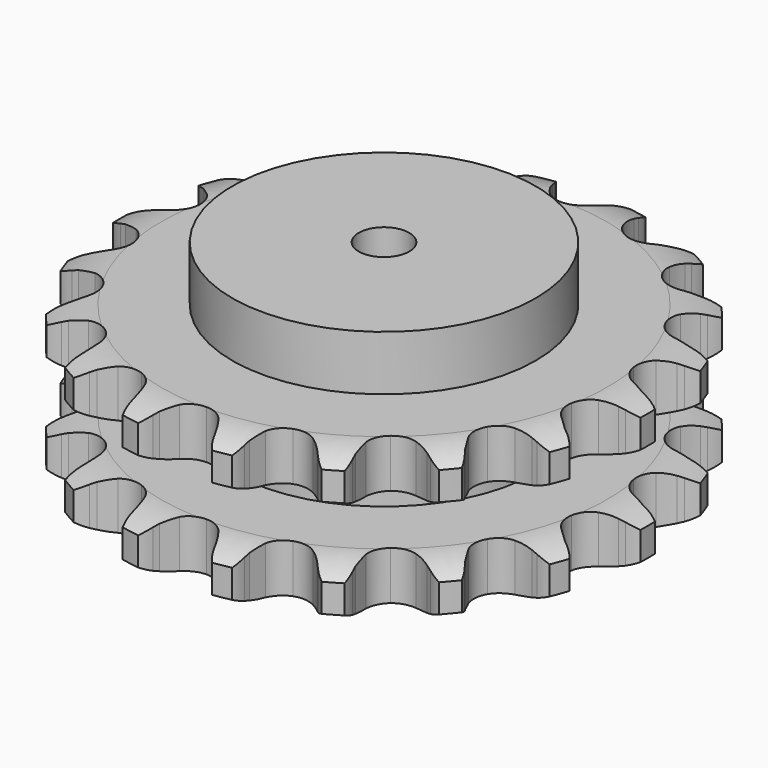
from build123d import *

# Parameters (mm, degrees)
PAD_DEPTH         = 87.4
SKETCH001_R       = 90
PAD001_DEPTH      = 120
SKETCH002_R       = 15
POCKET_DEPTH      = 0.001
POCKET_DEPTH_BACK = 120.001


with BuildPart() as part:
    # Sprocket → Pad (new body)
    with BuildSketch(Plane.XY):
        with BuildLine():
            ThreePointArc((-28.258586, 160.262403), (-22.20305, 155.378028), (-18.003876, 148.82871))
            Line((-18.003876, 148.82871), (-16.609914, 145.614296))
            ThreePointArc((-16.609914, 145.614296), (-14.352218, 141.215002), (-11.543559, 137.145307))
            ThreePointArc((-11.543559, 137.145307), (-6.412622, 133.027295), (0, 131.556645))
            ThreePointArc((0, 131.556645), (6.412622, 133.027295), (11.543559, 137.145307))
            ThreePointArc((11.543559, 137.145307), (14.352218, 141.215002), (16.609914, 145.614296))
            Line((16.609914, 145.614296), (18.003876, 148.82871))
            ThreePointArc((18.003876, 148.82871), (22.20305, 155.378028), (28.258586, 160.262403))
            ThreePointArc((28.258586, 160.262403), (32.278373, 153.601477), (33.984307, 146.010929))
            Line((33.984307, 146.010929), (34.194809, 142.513604))
            ThreePointArc((34.194809, 142.513604), (34.811702, 137.607443), (36.05906, 132.822563))
            ThreePointArc((36.05906, 132.822563), (39.472121, 127.198014), (44.995023, 123.622809))
            ThreePointArc((44.995023, 123.622809), (51.523908, 122.811522), (57.753855, 124.926304))
            Line((57.753855, 124.926304), (65.411236, 131.151754))
            ThreePointArc((65.411236, 131.151754), (66.586613, 132.451374), (67.820526, 133.695552))
            ThreePointArc((67.820526, 133.695552), (74.006458, 138.413696), (81.367354, 140.932392))
            ThreePointArc((81.367354, 140.932392), (82.866548, 133.29832), (81.873481, 125.582075))
            Line((81.873481, 125.582075), (80.875133, 122.223669))
            ThreePointArc((80.875133, 122.223669), (79.776816, 117.402395), (79.312425, 112.479457))
            ThreePointArc((79.312425, 112.479457), (80.595943, 106.026774), (84.562982, 100.778237))
            ThreePointArc((84.562982, 100.778237), (90.420651, 97.782866), (96.998183, 97.639344))
            Line((96.998183, 97.639344), (106.322997, 100.870375))
            ThreePointArc((106.322997, 100.870375), (107.871986, 101.689616), (109.45702, 102.436738))
            ThreePointArc((109.45702, 102.436738), (116.883594, 104.754629), (124.662019, 104.603854))
            ThreePointArc((124.662019, 104.603854), (123.459794, 96.91742), (119.887506, 90.006169))
            Line((119.887506, 90.006169), (117.800722, 87.191755))
            ThreePointArc((117.800722, 87.191755), (115.11967, 83.036886), (112.999541, 78.569669))
            ThreePointArc((112.999541, 78.569669), (111.998706, 72.067141), (113.931397, 65.778323))
            ThreePointArc((113.931397, 65.778323), (118.411328, 60.960154), (124.5431, 58.575638))
            Line((124.5431, 58.575638), (134.410636, 58.422541))
            ThreePointArc((134.410636, 58.422541), (136.146407, 58.66259), (137.891382, 58.822541))
            ThreePointArc((137.891382, 58.822541), (145.662844, 58.460608), (152.920605, 55.658548))
            ThreePointArc((152.920605, 55.658548), (149.161967, 48.846847), (143.441327, 43.574191))
            Line((143.441327, 43.574191), (140.517806, 41.643229))
            ThreePointArc((140.517806, 41.643229), (136.577392, 38.655903), (133.057244, 35.183219))
            ThreePointArc((133.057244, 35.183219), (129.892771, 29.415147), (129.558004, 22.844572))
            ThreePointArc((129.558004, 22.844572), (132.119852, 16.784747), (137.06628, 12.446846))
            Line((137.06628, 12.446846), (146.286369, 8.928085))
            ThreePointArc((146.286369, 8.928085), (147.999561, 8.559989), (149.694008, 8.113477))
            ThreePointArc((149.694008, 8.113477), (156.873006, 5.115375), (162.734709, 0))
            ThreePointArc((162.734709, 0), (156.873006, -5.115375), (149.694008, -8.113477))
            Line((149.694008, -8.113477), (146.286369, -8.928085))
            ThreePointArc((146.286369, -8.928085), (141.561865, -10.387552), (137.06628, -12.446846))
            ThreePointArc((137.06628, -12.446846), (132.119852, -16.784747), (129.558004, -22.844572))
            ThreePointArc((129.558004, -22.844572), (129.892771, -29.415147), (133.057244, -35.183219))
            Line((133.057244, -35.183219), (140.517806, -41.643229))
            ThreePointArc((140.517806, -41.643229), (142.001784, -42.575073), (143.441327, -43.574191))
            ThreePointArc((143.441327, -43.574191), (149.161967, -48.846847), (152.920605, -55.658548))
            ThreePointArc((152.920605, -55.658548), (145.662844, -58.460608), (137.891382, -58.822541))
            Line((137.891382, -58.822541), (134.410636, -58.422541))
            ThreePointArc((134.410636, -58.422541), (129.471888, -58.178115), (124.5431, -58.575638))
            ThreePointArc((124.5431, -58.575638), (118.411328, -60.960154), (113.931397, -65.778323))
            ThreePointArc((113.931397, -65.778323), (111.998706, -72.067141), (112.999541, -78.569669))
            Line((112.999541, -78.569669), (117.800722, -87.191755))
            ThreePointArc((117.800722, -87.191755), (118.876496, -88.574952), (119.887506, -90.006169))
            ThreePointArc((119.887506, -90.006169), (123.459794, -96.91742), (124.662019, -104.603854))
            ThreePointArc((124.662019, -104.603854), (116.883594, -104.754629), (109.45702, -102.436738))
            Line((109.45702, -102.436738), (106.322997, -100.870375))
            ThreePointArc((106.322997, -100.870375), (101.76569, -98.951539), (96.998183, -97.639344))
            ThreePointArc((96.998183, -97.639344), (90.420651, -97.782866), (84.562982, -100.778237))
            ThreePointArc((84.562982, -100.778237), (80.595943, -106.026774), (79.312425, -112.479457))
            Line((79.312425, -112.479457), (80.875133, -122.223669))
            ThreePointArc((80.875133, -122.223669), (81.412948, -123.891385), (81.873481, -125.582075))
            ThreePointArc((81.873481, -125.582075), (82.866548, -133.29832), (81.367354, -140.932392))
            ThreePointArc((81.367354, -140.932392), (74.006458, -138.413696), (67.820526, -133.695552))
            Line((67.820526, -133.695552), (65.411236, -131.151754))
            ThreePointArc((65.411236, -131.151754), (61.785048, -127.789947), (57.753855, -124.926304))
            ThreePointArc((57.753855, -124.926304), (51.523908, -122.811522), (44.995023, -123.622809))
            ThreePointArc((44.995023, -123.622809), (39.472121, -127.198014), (36.05906, -132.822563))
            Line((36.05906, -132.822563), (34.194809, -142.513604))
            ThreePointArc((34.194809, -142.513604), (34.129798, -144.264689), (33.984307, -146.010929))
            ThreePointArc((33.984307, -146.010929), (32.278373, -153.601477), (28.258586, -160.262403))
            ThreePointArc((28.258586, -160.262403), (22.20305, -155.378028), (18.003876, -148.82871))
            Line((18.003876, -148.82871), (16.609914, -145.614296))
            ThreePointArc((16.609914, -145.614296), (14.352218, -141.215002), (11.543559, -137.145307))
            ThreePointArc((11.543559, -137.145307), (6.412622, -133.027295), (0, -131.556645))
            ThreePointArc((0, -131.556645), (-6.412622, -133.027295), (-11.543559, -137.145307))
            Line((-11.543559, -137.145307), (-16.609914, -145.614296))
            ThreePointArc((-16.609914, -145.614296), (-17.269911, -147.237542), (-18.003876, -148.82871))
            ThreePointArc((-18.003876, -148.82871), (-22.20305, -155.378028), (-28.258586, -160.262403))
            ThreePointArc((-28.258586, -160.262403), (-32.278373, -153.601477), (-33.984307, -146.010929))
            Line((-33.984307, -146.010929), (-34.194809, -142.513604))
            ThreePointArc((-34.194809, -142.513604), (-34.811702, -137.607443), (-36.05906, -132.822563))
            ThreePointArc((-36.05906, -132.822563), (-39.472121, -127.198014), (-44.995023, -123.622809))
            ThreePointArc((-44.995023, -123.622809), (-51.523908, -122.811522), (-57.753855, -124.926304))
            Line((-57.753855, -124.926304), (-65.411236, -131.151754))
            ThreePointArc((-65.411236, -131.151754), (-66.586613, -132.451374), (-67.820526, -133.695552))
            ThreePointArc((-67.820526, -133.695552), (-74.006458, -138.413696), (-81.367354, -140.932392))
            ThreePointArc((-81.367354, -140.932392), (-82.866548, -133.29832), (-81.873481, -125.582075))
            Line((-81.873481, -125.582075), (-80.875133, -122.223669))
            ThreePointArc((-80.875133, -122.223669), (-79.776816, -117.402395), (-79.312425, -112.479457))
            ThreePointArc((-79.312425, -112.479457), (-80.595943, -106.026774), (-84.562982, -100.778237))
            ThreePointArc((-84.562982, -100.778237), (-90.420651, -97.782866), (-96.998183, -97.639344))
            Line((-96.998183, -97.639344), (-106.322997, -100.870375))
            ThreePointArc((-106.322997, -100.870375), (-107.871986, -101.689616), (-109.45702, -102.436738))
            ThreePointArc((-109.45702, -102.436738), (-116.883594, -104.754629), (-124.662019, -104.603854))
            ThreePointArc((-124.662019, -104.603854), (-123.459794, -96.91742), (-119.887506, -90.006169))
            Line((-119.887506, -90.006169), (-117.800722, -87.191755))
            ThreePointArc((-117.800722, -87.191755), (-115.11967, -83.036886), (-112.999541, -78.569669))
            ThreePointArc((-112.999541, -78.569669), (-111.998706, -72.067141), (-113.931397, -65.778323))
            ThreePointArc((-113.931397, -65.778323), (-118.411328, -60.960154), (-124.5431, -58.575638))
            Line((-124.5431, -58.575638), (-134.410636, -58.422541))
            ThreePointArc((-134.410636, -58.422541), (-136.146407, -58.66259), (-137.891382, -58.822541))
            ThreePointArc((-137.891382, -58.822541), (-145.662844, -58.460608), (-152.920605, -55.658548))
            ThreePointArc((-152.920605, -55.658548), (-149.161967, -48.846847), (-143.441327, -43.574191))
            Line((-143.441327, -43.574191), (-140.517806, -41.643229))
            ThreePointArc((-140.517806, -41.643229), (-136.577392, -38.655903), (-133.057244, -35.183219))
            ThreePointArc((-133.057244, -35.183219), (-129.892771, -29.415147), (-129.558004, -22.844572))
            ThreePointArc((-129.558004, -22.844572), (-132.119852, -16.784747), (-137.06628, -12.446846))
            Line((-137.06628, -12.446846), (-146.286369, -8.928085))
            ThreePointArc((-146.286369, -8.928085), (-147.999561, -8.559989), (-149.694008, -8.113477))
            ThreePointArc((-149.694008, -8.113477), (-156.873006, -5.115375), (-162.734709, 0))
            ThreePointArc((-162.734709, 0), (-156.873006, 5.115375), (-149.694008, 8.113477))
            Line((-149.694008, 8.113477), (-146.286369, 8.928085))
            ThreePointArc((-146.286369, 8.928085), (-141.561865, 10.387552), (-137.06628, 12.446846))
            ThreePointArc((-137.06628, 12.446846), (-132.119852, 16.784747), (-129.558004, 22.844572))
            ThreePointArc((-129.558004, 22.844572), (-129.892771, 29.415147), (-133.057244, 35.183219))
            Line((-133.057244, 35.183219), (-140.517806, 41.643229))
            ThreePointArc((-140.517806, 41.643229), (-142.001784, 42.575073), (-143.441327, 43.574191))
            ThreePointArc((-143.441327, 43.574191), (-149.161967, 48.846847), (-152.920605, 55.658548))
            ThreePointArc((-152.920605, 55.658548), (-145.662844, 58.460608), (-137.891382, 58.822541))
            Line((-137.891382, 58.822541), (-134.410636, 58.422541))
            ThreePointArc((-134.410636, 58.422541), (-129.471888, 58.178115), (-124.5431, 58.575638))
            ThreePointArc((-124.5431, 58.575638), (-118.411328, 60.960154), (-113.931397, 65.778323))
            ThreePointArc((-113.931397, 65.778323), (-111.998706, 72.067141), (-112.999541, 78.569669))
            Line((-112.999541, 78.569669), (-117.800722, 87.191755))
            ThreePointArc((-117.800722, 87.191755), (-118.876496, 88.574952), (-119.887506, 90.006169))
            ThreePointArc((-119.887506, 90.006169), (-123.459794, 96.91742), (-124.662019, 104.603854))
            ThreePointArc((-124.662019, 104.603854), (-116.883594, 104.754629), (-109.45702, 102.436738))
            Line((-109.45702, 102.436738), (-106.322997, 100.870375))
            ThreePointArc((-106.322997, 100.870375), (-101.76569, 98.951539), (-96.998183, 97.639344))
            ThreePointArc((-96.998183, 97.639344), (-90.420651, 97.782866), (-84.562982, 100.778237))
            ThreePointArc((-84.562982, 100.778237), (-80.595943, 106.026774), (-79.312425, 112.479457))
            Line((-79.312425, 112.479457), (-80.875133, 122.223669))
            ThreePointArc((-80.875133, 122.223669), (-81.412948, 123.891385), (-81.873481, 125.582075))
            ThreePointArc((-81.873481, 125.582075), (-82.866548, 133.29832), (-81.367354, 140.932392))
            ThreePointArc((-81.367354, 140.932392), (-74.006458, 138.413696), (-67.820526, 133.695552))
            Line((-67.820526, 133.695552), (-65.411236, 131.151754))
            ThreePointArc((-65.411236, 131.151754), (-61.785048, 127.789947), (-57.753855, 124.926304))
            ThreePointArc((-57.753855, 124.926304), (-51.523908, 122.811522), (-44.995023, 123.622809))
            ThreePointArc((-44.995023, 123.622809), (-39.472121, 127.198014), (-36.05906, 132.822563))
            Line((-36.05906, 132.822563), (-34.194809, 142.513604))
            ThreePointArc((-34.194809, 142.513604), (-34.129798, 144.264689), (-33.984307, 146.010929))
            ThreePointArc((-33.984307, 146.010929), (-32.278373, 153.601477), (-28.258586, 160.262403))
        make_face()
    extrude(amount=PAD_DEPTH)

    # Sketch → Groove (revolve, cut)
    with BuildSketch(Plane.XZ):
        with BuildLine():
            ThreePointArc((132.5, 0), (144.869317, 1.522732), (156.5, 6))
            Line((156.5, 6), (156.5, 22.8))
            ThreePointArc((156.5, 22.8), (144.869317, 27.277268), (132.5, 28.8))
            Line((90, 28.8), (132.5, 28.8))
            Line((90, 58.6), (90, 28.8))
            Line((132.5, 58.6), (90, 58.6))
            ThreePointArc((132.5, 58.6), (144.869317, 60.122732), (156.5, 64.6))
            Line((156.5, 64.6), (156.5, 81.4))
            ThreePointArc((156.5, 81.4), (144.869317, 85.877268), (132.5, 87.4))
            Line((132.5, 87.4), (166.5, 87.4))
            Line((166.5, 87.4), (166.5, 0))
            Line((132.5, 0), (166.5, 0))
        make_face()
    revolve(axis=Axis((0, 0, 0), (0, 0, 1)), mode=Mode.SUBTRACT)

    # Sketch001 → Pad001 (join)
    with BuildSketch(Plane.XY):
        Circle(SKETCH001_R)
    extrude(amount=PAD001_DEPTH)

    # Sketch002 → Pocket (cut, two sides)
    with BuildSketch(Plane.XY) as pocket_sk:
        Circle(SKETCH002_R)
    extrude(amount=-POCKET_DEPTH, mode=Mode.SUBTRACT)
    extrude(pocket_sk.sketch, amount=POCKET_DEPTH_BACK, mode=Mode.SUBTRACT)


solid = part.part
